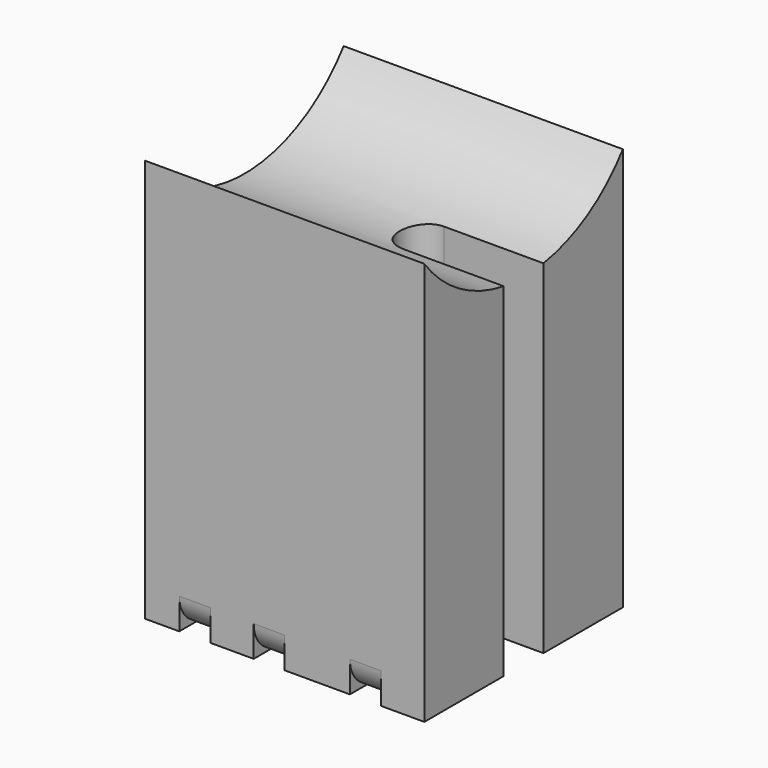
from build123d import *

# Parameters (mm, degrees)
F1_DEPTH = 57.15
F4_DEPTH = 101.6
F5_W     = 6.35
F5_H     = 6.35
F6_DEPTH = 6.35
F8_DEPTH = 50.8


with BuildPart() as f1:
    # F0 (on Right) → F1 (new body)
    with BuildSketch(Plane.YZ):
        with BuildLine():
            Line((-36.028456, 44.457605), (-36.028456, -38.092395))
            Line((-36.028456, -38.092395), (14.771544, -38.092395))
            Line((14.771544, -38.092395), (14.771544, 44.457605))
            ThreePointArc((14.771544, 44.457605), (-10.628456, 31.757605), (-36.028456, 44.457605))
        make_face()
    extrude(amount=F1_DEPTH)

    # F3 (on face) → F4 (cut)
    with BuildSketch(Plane(origin=(0, 0, -38.092395), x_dir=(1, 0, 0), z_dir=(0, 0, -1))):
        with BuildLine():
            Line((57.15, 5.548456), (57.15, 15.708456))
            Line((57.15, 15.708456), (36.83, 15.708456))
            ThreePointArc((36.83, 15.708456), (31.75, 10.628456), (36.83, 5.548456))
            Line((36.83, 5.548456), (57.15, 5.548456))
        make_face()
    extrude(amount=-F4_DEPTH, mode=Mode.SUBTRACT)

    # F5 (on face) → F6 (cut)
    with BuildSketch(Plane(origin=(0, 0, -38.092395), x_dir=(1, 0, 0), z_dir=(0, 0, -1))):
        with Locations((45.085, 32.853456)):
            Rectangle(F5_W, F5_H)
        with Locations((25.4, 32.853456)):
            Rectangle(F5_W, F5_H)
        with Locations((25.4, -11.596544)):
            Rectangle(F5_W, F5_H)
        with Locations((45.085, -11.596544)):
            Rectangle(F5_W, F5_H)
        with Locations((10.16, 32.853456)):
            Rectangle(F5_W, F5_H)
        with Locations((10.16, -11.596544)):
            Rectangle(F5_W, F5_H)
    extrude(amount=-F6_DEPTH, mode=Mode.SUBTRACT)


with BuildPart() as f8:
    # F7 (on face) → F8 (new body)
    with BuildSketch(Plane(origin=(0, 0, 0), x_dir=(0, -1, 0), z_dir=(-1, 0, 0))):
        with BuildLine():
            ThreePointArc((29.678456, -38.092395), (34.168584, -36.232523), (36.028456, -31.742395))
            Line((36.028456, -31.742395), (29.678456, -31.742395))
            Line((29.678456, -31.742395), (29.678456, -38.092395))
        make_face()
        with BuildLine():
            Line((-8.421544, -31.742395), (-14.771544, -31.742395))
            ThreePointArc((-14.771544, -31.742395), (-12.911672, -36.232523), (-8.421544, -38.092395))
            Line((-8.421544, -38.092395), (-8.421544, -31.742395))
        make_face()
    extrude(amount=-F8_DEPTH)


solid = Compound([f1.part, f8.part])
